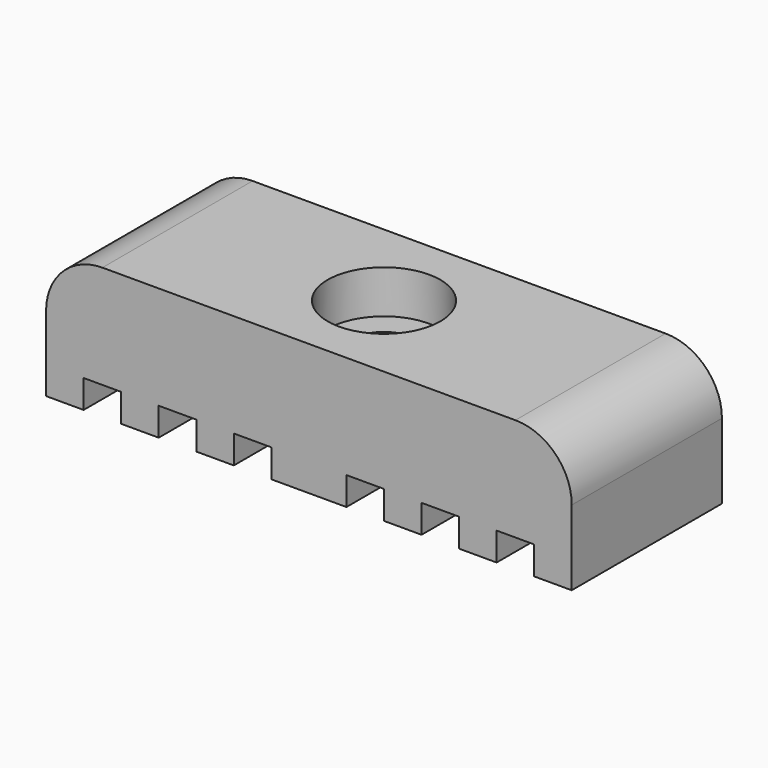
from build123d import *

# Parameters (mm, degrees)
F1_DEPTH = 10
F2_R     = 1.6
F3_DEPTH = 25
F2_R_2   = 3
F4_DEPTH = 2.3
F5_R     = 3


with BuildPart() as f1:
    # F0 (on Front) → F1 (new body)
    with BuildSketch(Plane.XZ):
        Polygon((12, -3.5), (14, -3.5), (14, 3.5), (-14, 3.5), (-14, -3.5), (-12, -3.5), (-12, -2), (-10, -2), (-10, -3.5), (-8, -3.5), (-8, -2), (-6, -2), (-6, -3.5), (-4, -3.5), (-4, -2), (-2, -2), (-2, -3.5), (2, -3.5), (2, -2), (4, -2), (4, -3.5), (6, -3.5), (6, -2), (8, -2), (8, -3.5), (10, -3.5), (10, -2), (12, -2), align=None)
    extrude(amount=F1_DEPTH)

    # F2 (on face) → F3 (cut)
    with BuildSketch(Plane.XY.offset(3.5)):
        with Locations((0, -5)):
            Circle(F2_R)
    extrude(amount=-F3_DEPTH, mode=Mode.SUBTRACT)

    # F2 (on face) → F4 (cut)
    with BuildSketch(Plane.XY.offset(3.5)):
        with Locations((0, -5)):
            Circle(F2_R_2)
        with Locations((0, -5)):
            Circle(F2_R, mode=Mode.SUBTRACT)
    extrude(amount=-F4_DEPTH, mode=Mode.SUBTRACT)

    # F5
    f5_edges = [f1.edges().sort_by_distance(p)[0] for p in [
        (-14, -5, 3.5),
        (14, -5, 3.5),
    ]]
    fillet(f5_edges, radius=F5_R)


solid = f1.part
